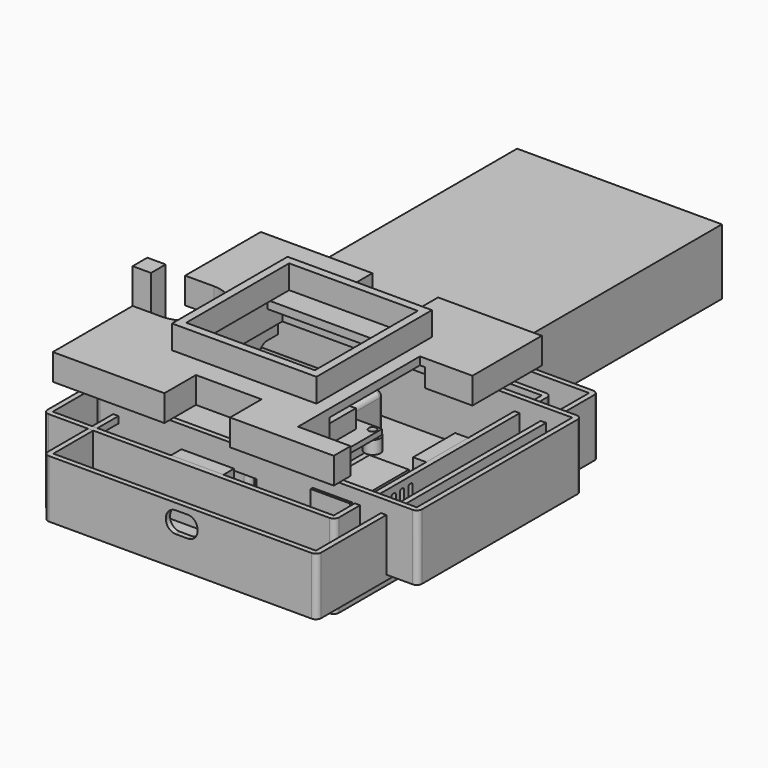
from build123d import *

# Parameters (mm, degrees)
BOX003_W                  = 78
BOX003_H                  = 123
BOX003_DEPTH              = 25
BOX001_W                  = 64
BOX001_H                  = 48
BOX001_DEPTH              = 15
FILLET001_R               = 2
CYLINDER_R                = 1.5
CYLINDER_DEPTH            = 10
CYLINDER001_R             = 1.5
CYLINDER001_DEPTH         = 10
CYLINDER002_R             = 1.5
CYLINDER002_DEPTH         = 10
CYLINDER003_R             = 1.5
CYLINDER003_DEPTH         = 10
BOX005_W                  = 42
BOX005_H                  = 24
BOX005_DEPTH              = 2
BOX004_W                  = 30
BOX004_H                  = 15
BOX004_DEPTH              = 7
BOX006_W                  = 30
BOX006_H                  = 28
BOX006_DEPTH              = 15
CYLINDER005_R             = 1.5
CYLINDER005_DEPTH         = 10
BOX008_W                  = 14
BOX008_H                  = 8
BOX008_DEPTH              = 3
CHAMFER001_SIZE           = 6
CUT004_PLACEMENT_ANGLE    = 180
CYLINDER004_R             = 1.5
CYLINDER004_DEPTH         = 10
BOX007_W                  = 14
BOX007_H                  = 8
BOX007_DEPTH              = 3
CHAMFER_SIZE              = 6
FUSION002_PLACEMENT_ANGLE = 90
BOX014_W                  = 20
BOX014_H                  = 9
BOX014_DEPTH              = 18
CHAMFER002_SIZE           = 6
BOX015_W                  = 24
BOX015_H                  = 9
BOX015_DEPTH              = 18
CHAMFER003_SIZE           = 8
BOX002_W                  = 74
BOX002_H                  = 119
BOX002_DEPTH              = 25
BOX_W                     = 78
BOX_H                     = 123
BOX_DEPTH                 = 25
FILLET_R                  = 2
CUT_PLACEMENT_ANGLE       = 270
FILLET002_R               = 2
BOX016_W                  = 4
BOX016_H                  = 8
BOX016_DEPTH              = 3
CYLINDER007_R             = 1.5
CYLINDER007_DEPTH         = 10
CYLINDER008_R             = 1.5
CYLINDER008_DEPTH         = 10
CYLINDER009_R             = 1.5
CYLINDER009_DEPTH         = 10
CYLINDER006_R             = 1.5
CYLINDER006_DEPTH         = 10
BOX013_W                  = 7
BOX013_H                  = 7
BOX013_DEPTH              = 3
BOX012_W                  = 75
BOX012_H                  = 42
BOX012_DEPTH              = 10
BOX011_W                  = 86
BOX011_H                  = 56
BOX011_DEPTH              = 2
FILLET004_R               = 4
FUSION009_PLACEMENT_ANGLE = 180
CYLINDER015_R             = 1.5
CYLINDER015_DEPTH         = 10
CYLINDER016_R             = 1.5
CYLINDER016_DEPTH         = 10
CYLINDER017_R             = 1.5
CYLINDER017_DEPTH         = 10
CYLINDER014_R             = 1.5
CYLINDER014_DEPTH         = 10
BOX017_W                  = 60
BOX017_H                  = 40
BOX017_DEPTH              = 2
CYLINDER011_R             = 0.7
CYLINDER011_DEPTH         = 10
CYLINDER012_R             = 0.7
CYLINDER012_DEPTH         = 10
CYLINDER013_R             = 0.7
CYLINDER013_DEPTH         = 10
CYLINDER010_R             = 0.7
CYLINDER010_DEPTH         = 10
BOX009_W                  = 44
BOX009_H                  = 18
BOX009_DEPTH              = 2
BOX010_W                  = 8
BOX010_H                  = 9
BOX010_DEPTH              = 3
FILLET003_R               = 1.4
BOX021_W                  = 10
BOX021_H                  = 12
BOX021_DEPTH              = 8
FILLET006_R               = 3.7
BOX022_W                  = 10
BOX022_H                  = 12
BOX022_DEPTH              = 8
FILLET007_R               = 3.7
FILLET007_PLACEMENT_ANGLE = 90
BOX020_W                  = 10
BOX020_H                  = 12
BOX020_DEPTH              = 8
FILLET005_R               = 3.7
BOX018_W                  = 100
BOX018_H                  = 130
BOX018_DEPTH              = 20
BOX019_W                  = 104
BOX019_H                  = 134
BOX019_DEPTH              = 22
FILLET008_R               = 2
CYLINDER018_R             = 0.7
CYLINDER018_DEPTH         = 10
CYLINDER019_R             = 0.7
CYLINDER019_DEPTH         = 10
BOX023_W                  = 20
BOX023_H                  = 5
BOX023_DEPTH              = 10
CYLINDER020_R             = 0.7
CYLINDER020_DEPTH         = 10
CYLINDER021_R             = 0.7
CYLINDER021_DEPTH         = 10
BOX024_W                  = 20
BOX024_H                  = 5
BOX024_DEPTH              = 10
TUBE001_R                 = 3
TUBE001_R_2               = 0.7
TUBE001_DEPTH             = 5
TUBE002_R                 = 3
TUBE002_R_2               = 0.7
TUBE002_DEPTH             = 5
TUBE003_R                 = 3
TUBE003_R_2               = 0.7
TUBE003_DEPTH             = 5
TUBE_R                    = 3
TUBE_R_2                  = 0.7
TUBE_DEPTH                = 5
TUBE005_R                 = 3
TUBE005_R_2               = 0.7
TUBE005_DEPTH             = 7
TUBE004_R                 = 3
TUBE004_R_2               = 0.7
TUBE004_DEPTH             = 7
FUSION016_PLACEMENT_ANGLE = 90
TUBE007_R                 = 3
TUBE007_R_2               = 0.7
TUBE007_DEPTH             = 5
TUBE008_R                 = 3
TUBE008_R_2               = 0.7
TUBE008_DEPTH             = 5
TUBE010_R                 = 3
TUBE010_R_2               = 0.7
TUBE010_DEPTH             = 5
TUBE006_R                 = 3
TUBE006_R_2               = 0.7
TUBE006_DEPTH             = 5
TUBE011_R                 = 3
TUBE011_R_2               = 0.7
TUBE011_DEPTH             = 10
TUBE012_R                 = 3
TUBE012_R_2               = 0.7
TUBE012_DEPTH             = 10
TUBE013_R                 = 3
TUBE013_R_2               = 0.7
TUBE013_DEPTH             = 10
TUBE009_R                 = 3
TUBE009_R_2               = 0.7
TUBE009_DEPTH             = 10
CYLINDER022_R             = 0.7
CYLINDER022_DEPTH         = 10
CYLINDER023_R             = 0.7
CYLINDER023_DEPTH         = 10
BOX025_W                  = 20
BOX025_H                  = 5
BOX025_DEPTH              = 10
CUT015_PLACEMENT_ANGLE    = 90
CYLINDER024_R             = 6
CYLINDER024_DEPTH         = 10
BOX026_W                  = 20
BOX026_H                  = 20
BOX026_DEPTH              = 3
FILLET009_R               = 9.7
BOX032_W                  = 9
BOX032_H                  = 20
BOX032_DEPTH              = 15
BOX031_W                  = 9
BOX031_H                  = 30
BOX031_DEPTH              = 20
FILLET010_R               = 9
CYLINDER026_R             = 4
CYLINDER026_DEPTH         = 10
CYLINDER025_R             = 8
CYLINDER025_DEPTH         = 30
BOX030_W                  = 19
BOX030_H                  = 25
BOX030_DEPTH              = 20
BOX029_W                  = 19
BOX029_H                  = 25
BOX029_DEPTH              = 20
FILLET011_R               = 3
BOX040_W                  = 12
BOX040_H                  = 12
BOX040_DEPTH              = 8
FILLET020_R               = 3.8
BOX039_W                  = 12
BOX039_H                  = 12
BOX039_DEPTH              = 8
FILLET019_R               = 3.8
BOX041_W                  = 12
BOX041_H                  = 12
BOX041_DEPTH              = 8
FILLET021_R               = 3.8
BOX033_W                  = 10
BOX033_H                  = 25
BOX033_DEPTH              = 2
FILLET013_R               = 0.8
FILLET013_PLACEMENT_ANGLE = 90
BOX034_W                  = 10
BOX034_H                  = 25
BOX034_DEPTH              = 2
FILLET014_R               = 0.8
FILLET014_PLACEMENT_ANGLE = 90
BOX035_W                  = 10
BOX035_H                  = 25
BOX035_DEPTH              = 2
FILLET015_R               = 0.8
FILLET015_PLACEMENT_ANGLE = 90
BOX036_W                  = 10
BOX036_H                  = 25
BOX036_DEPTH              = 2
FILLET016_R               = 0.8
FILLET016_PLACEMENT_ANGLE = 90
BOX037_W                  = 10
BOX037_H                  = 25
BOX037_DEPTH              = 2
FILLET017_R               = 0.8
FILLET017_PLACEMENT_ANGLE = 90
BOX038_W                  = 10
BOX038_H                  = 25
BOX038_DEPTH              = 2
FILLET018_R               = 0.8
FILLET018_PLACEMENT_ANGLE = 90
BOX027_W                  = 107
BOX027_H                  = 99
BOX027_DEPTH              = 32
BOX028_W                  = 111
BOX028_H                  = 103
BOX028_DEPTH              = 32
FILLET012_R               = 2
BOX043_W                  = 5
BOX043_H                  = 5
BOX043_DEPTH              = 3
BOX042_W                  = 10
BOX042_H                  = 7
BOX042_DEPTH              = 10
BOX042_PLACEMENT_ANGLE    = 20
BOX044_W                  = 5
BOX044_H                  = 5
BOX044_DEPTH              = 5
BOX045_W                  = 7
BOX045_H                  = 7
BOX045_DEPTH              = 20
BOX050_W                  = 60
BOX050_H                  = 50
BOX050_DEPTH              = 10
BOX052_W                  = 20
BOX052_H                  = 58
BOX052_DEPTH              = 10
BOX049_W                  = 25
BOX049_H                  = 20
BOX049_DEPTH              = 10
BOX051_W                  = 25
BOX051_H                  = 20
BOX051_DEPTH              = 10
BOX048_W                  = 25
BOX048_H                  = 25
BOX048_DEPTH              = 10
FILLET022_R               = 12
BOX047_W                  = 50
BOX047_H                  = 30
BOX047_DEPTH              = 10
BOX046_W                  = 107
BOX046_H                  = 99
BOX046_DEPTH              = 10
BOX054_W                  = 49
BOX054_H                  = 49
BOX054_DEPTH              = 9
BOX053_W                  = 55
BOX053_H                  = 55
BOX053_DEPTH              = 9


with BuildPart() as cube003:
    # Box003 → Box003 (new body)
    with BuildSketch(Plane.XY):
        with Locations((39, 61.5)):
            Rectangle(BOX003_W, BOX003_H)
    extrude(amount=BOX003_DEPTH)


with BuildPart() as fillet001:
    # Box001 → Box001 (new body)
    with BuildSketch(Plane(origin=(6, -8, 0), x_dir=(0, -1, 0), z_dir=(0, 0, 1))):
        with Locations((32, 24)):
            Rectangle(BOX001_W, BOX001_H)
    extrude(amount=BOX001_DEPTH)

    # Fillet001
    fillet001_edges = [fillet001.edges().sort_by_distance(p)[0] for p in [
        (6, -8, 7.5),
        (30, -8, 15),
        (54, -8, 7.5),
        (30, -8, 0),
        (6, -72, 7.5),
        (30, -72, 15),
        (54, -72, 7.5),
        (30, -72, 0),
        (6, -40, 0),
        (6, -40, 15),
        (54, -40, 0),
        (54, -40, 15),
    ]]
    fillet(fillet001_edges, radius=FILLET001_R)


with BuildPart() as cylinder:
    # Cylinder → Cylinder (new body)
    with BuildSketch(Plane.XY.offset(-2)):
        Circle(CYLINDER_R)
    extrude(amount=CYLINDER_DEPTH)


with BuildPart() as cylinder001:
    # Cylinder001 → Cylinder001 (new body)
    with BuildSketch(Plane(origin=(38, 0, -2), x_dir=(1, 0, 0), z_dir=(0, 0, 1))):
        Circle(CYLINDER001_R)
    extrude(amount=CYLINDER001_DEPTH)


with BuildPart() as cylinder002:
    # Cylinder002 → Cylinder002 (new body)
    with BuildSketch(Plane(origin=(38, 20, -2), x_dir=(1, 0, 0), z_dir=(0, 0, 1))):
        Circle(CYLINDER002_R)
    extrude(amount=CYLINDER002_DEPTH)


with BuildPart() as fusion001:
    # Cylinder003 → Cylinder003 (new body)
    with BuildSketch(Plane(origin=(0, 20, -2), x_dir=(1, 0, 0), z_dir=(0, 0, 1))):
        Circle(CYLINDER003_R)
    extrude(amount=CYLINDER003_DEPTH)

    # Fusion001: union Cylinder, Cylinder001, Cylinder002
    add(cylinder.part)
    add(cylinder001.part)
    add(cylinder002.part)


with BuildPart() as fusion001_1:
    # Fusion001 placement: moved
    add(fusion001.part.moved(Location((-4, -2, 0))))


with BuildPart() as cube005:
    # Box005 → Box005 (new body)
    with BuildSketch(Plane(origin=(-6, -4, 0), x_dir=(1, 0, 0), z_dir=(0, 0, 1))):
        with Locations((21, 12)):
            Rectangle(BOX005_W, BOX005_H)
    extrude(amount=BOX005_DEPTH)


with BuildPart() as display:
    # Box004 → Box004 (new body)
    with BuildSketch(Plane.XY.offset(2)):
        with Locations((15, 7.5)):
            Rectangle(BOX004_W, BOX004_H)
    extrude(amount=BOX004_DEPTH)

    # Fusion: union Cube005
    add(cube005.part)

    # Cut001: cut Fusion001
    add(fusion001_1.part, mode=Mode.SUBTRACT)


with BuildPart() as display_1:
    # Cut001 placement: moved
    add(display.part.moved(Location((31, -45, 11))))


with BuildPart() as sphere:
    # Sphere → Sphere (revolve)
    with BuildSketch(Plane(origin=(15, 14, 43.5), x_dir=(1, 0, 0), z_dir=(0, -1, 0))):
        with BuildLine():
            ThreePointArc((0, -30), (30, 0), (0, 30))
            Line((0, 30), (0, -30))
        make_face()
    revolve(axis=Axis((15, 14, 43.5), (0, 0, 1)))


with BuildPart() as cut002:
    # Box006 → Box006 (new body)
    with BuildSketch(Plane.XY):
        with Locations((15, 14)):
            Rectangle(BOX006_W, BOX006_H)
    extrude(amount=BOX006_DEPTH)

    # Cut002: cut Sphere
    add(sphere.part, mode=Mode.SUBTRACT)


with BuildPart() as cylinder005:
    # Cylinder005 → Cylinder005 (new body)
    with BuildSketch(Plane(origin=(15, 32.5, 0), x_dir=(1, 0, 0), z_dir=(0, 0, 1))):
        Circle(CYLINDER005_R)
    extrude(amount=CYLINDER005_DEPTH)


with BuildPart() as cut004:
    # Box008 → Box008 (new body)
    with BuildSketch(Plane(origin=(8, 27, 6), x_dir=(1, 0, 0), z_dir=(0, 0, 1))):
        with Locations((7, 4)):
            Rectangle(BOX008_W, BOX008_H)
    extrude(amount=BOX008_DEPTH)

    # Chamfer001
    chamfer001_edges = [cut004.edges().sort_by_distance(p)[0] for p in [
        (8, 35, 7.5),
        (22, 35, 7.5),
    ]]
    chamfer(chamfer001_edges, length=CHAMFER001_SIZE)

    # Cut004: cut Cylinder005
    add(cylinder005.part, mode=Mode.SUBTRACT)


with BuildPart() as cut004_1:
    # Cut004 placement: moved
    add(cut004.part.moved(Location((30, 28, 0))).rotate(Axis((30, 28, 0), (0, 0, 1)), CUT004_PLACEMENT_ANGLE))


with BuildPart() as cylinder004:
    # Cylinder004 → Cylinder004 (new body)
    with BuildSketch(Plane(origin=(15, 32.5, 0), x_dir=(1, 0, 0), z_dir=(0, 0, 1))):
        Circle(CYLINDER004_R)
    extrude(amount=CYLINDER004_DEPTH)


with BuildPart() as speaker:
    # Box007 → Box007 (new body)
    with BuildSketch(Plane(origin=(8, 27, 6), x_dir=(1, 0, 0), z_dir=(0, 0, 1))):
        with Locations((7, 4)):
            Rectangle(BOX007_W, BOX007_H)
    extrude(amount=BOX007_DEPTH)

    # Chamfer
    chamfer_edges = [speaker.edges().sort_by_distance(p)[0] for p in [
        (8, 35, 7.5),
        (22, 35, 7.5),
    ]]
    chamfer(chamfer_edges, length=CHAMFER_SIZE)

    # Cut003: cut Cylinder004
    add(cylinder004.part, mode=Mode.SUBTRACT)

    # Fusion002: union Cut002, Cut004
    add(cut002.part)
    add(cut004_1.part)


with BuildPart() as speaker_1:
    # Fusion002 placement: moved
    add(speaker.part.moved(Location((83, -79, 20))).rotate(Axis((83, -79, 20), (0, 1, 0)), FUSION002_PLACEMENT_ANGLE))


with BuildPart() as chamfer002:
    # Box014 → Box014 (new body)
    with BuildSketch(Plane(origin=(41.5, -76.5, 0), x_dir=(1, 0, 0), z_dir=(0, 0, 1))):
        with Locations((10, 4.5)):
            Rectangle(BOX014_W, BOX014_H)
    extrude(amount=BOX014_DEPTH)

    # Chamfer002
    chamfer002_edges = [chamfer002.edges().sort_by_distance(p)[0] for p in [
        (41.5, -67.5, 9),
        (61.5, -67.5, 9),
    ]]
    chamfer(chamfer002_edges, length=CHAMFER002_SIZE)


with BuildPart() as chamfer002_1:
    # Chamfer002 placement: moved
    add(chamfer002.part.moved(Location((0, -2, -2))))


with BuildPart() as chamfer003:
    # Box015 → Box015 (new body)
    with BuildSketch(Plane(origin=(39.5, -76.5, 0), x_dir=(1, 0, 0), z_dir=(0, 0, 1))):
        with Locations((12, 4.5)):
            Rectangle(BOX015_W, BOX015_H)
    extrude(amount=BOX015_DEPTH)

    # Chamfer003
    chamfer003_edges = [chamfer003.edges().sort_by_distance(p)[0] for p in [
        (39.5, -67.5, 9),
        (63.5, -67.5, 9),
    ]]
    chamfer(chamfer003_edges, length=CHAMFER003_SIZE)


with BuildPart() as cube002:
    # Box002 → Box002 (new body)
    with BuildSketch(Plane(origin=(2, 2, 0), x_dir=(1, 0, 0), z_dir=(0, 0, 1))):
        with Locations((37, 59.5)):
            Rectangle(BOX002_W, BOX002_H)
    extrude(amount=BOX002_DEPTH)


with BuildPart() as cut006:
    # Box → Box (new body)
    with BuildSketch(Plane.XY):
        with Locations((39, 61.5)):
            Rectangle(BOX_W, BOX_H)
    extrude(amount=BOX_DEPTH)

    # Fillet
    fillet_edges = [cut006.edges().sort_by_distance(p)[0] for p in [
        (0, 0, 12.5),
        (0, 123, 12.5),
        (78, 0, 12.5),
    ]]
    fillet(fillet_edges, radius=FILLET_R)

    # Cut: cut Cube002
    add(cube002.part, mode=Mode.SUBTRACT)


with BuildPart() as cut006_1:
    # Cut placement: moved
    add(cut006.part.rotate(Axis((0, 0, 0), (0, 0, 1)), CUT_PLACEMENT_ANGLE))

    # Fillet002
    fillet002_edges = [cut006_1.edges().sort_by_distance(p)[0] for p in [
        (123, -78, 12.5),
    ]]
    fillet(fillet002_edges, radius=FILLET002_R)

    # Fusion007: union Chamfer003
    add(chamfer003.part)

    # Cut006: cut Chamfer002
    add(chamfer002_1.part, mode=Mode.SUBTRACT)


with BuildPart() as cube016:
    # Box016 → Box016 (new body)
    with BuildSketch(Plane(origin=(11, -85, 12), x_dir=(1, 0, 0), z_dir=(0, 0, 1))):
        with Locations((2, 4)):
            Rectangle(BOX016_W, BOX016_H)
    extrude(amount=BOX016_DEPTH)


with BuildPart() as cylinder007:
    # Cylinder007 → Cylinder007 (new body)
    with BuildSketch(Plane(origin=(58, 0, 0), x_dir=(1, 0, 0), z_dir=(0, 0, 1))):
        Circle(CYLINDER007_R)
    extrude(amount=CYLINDER007_DEPTH)


with BuildPart() as cylinder008:
    # Cylinder008 → Cylinder008 (new body)
    with BuildSketch(Plane(origin=(0, 49, 0), x_dir=(1, 0, 0), z_dir=(0, 0, 1))):
        Circle(CYLINDER008_R)
    extrude(amount=CYLINDER008_DEPTH)


with BuildPart() as cylinder009:
    # Cylinder009 → Cylinder009 (new body)
    with BuildSketch(Plane(origin=(58, 49, 0), x_dir=(1, 0, 0), z_dir=(0, 0, 1))):
        Circle(CYLINDER009_R)
    extrude(amount=CYLINDER009_DEPTH)


with BuildPart() as fusion004:
    # Cylinder006 → Cylinder006 (new body)
    with BuildSketch(Plane.XY):
        Circle(CYLINDER006_R)
    extrude(amount=CYLINDER006_DEPTH)

    # Fusion004: union Cylinder007, Cylinder008, Cylinder009
    add(cylinder007.part)
    add(cylinder008.part)
    add(cylinder009.part)


with BuildPart() as fusion004_1:
    # Fusion004 placement: moved
    add(fusion004.part.moved(Location((6.5, -63.5, 4))))


with BuildPart() as cube013:
    # Box013 → Box013 (new body)
    with BuildSketch(Plane(origin=(45, -67, 12), x_dir=(1, 0, 0), z_dir=(0, 0, 1))):
        with Locations((3.5, 3.5)):
            Rectangle(BOX013_W, BOX013_H)
    extrude(amount=BOX013_DEPTH)


with BuildPart() as cube012:
    # Box012 → Box012 (new body)
    with BuildSketch(Plane(origin=(5, 7, 2), x_dir=(1, 0, 0), z_dir=(0, 0, 1))):
        with Locations((37.5, 21)):
            Rectangle(BOX012_W, BOX012_H)
    extrude(amount=BOX012_DEPTH)


with BuildPart() as power_pack001:
    # Box011 → Box011 (new body)
    with BuildSketch(Plane.XY.offset(10)):
        with Locations((43, 28)):
            Rectangle(BOX011_W, BOX011_H)
    extrude(amount=BOX011_DEPTH)

    # Fusion005: union Cube012
    add(cube012.part)


with BuildPart() as power_pack001_1:
    # Fusion005 placement: moved
    add(power_pack001.part.moved(Location((0, -67, 0))))

    # Fusion006: union Cube013
    add(cube013.part)


with BuildPart() as power_pack001_2:
    # Fusion006 placement: moved
    add(power_pack001_1.part.moved(Location((3, 0, 0))))

    # Cut005: cut Fusion004
    add(fusion004_1.part, mode=Mode.SUBTRACT)

    # Fillet004
    fillet004_edges = [power_pack001_2.edges().sort_by_distance(p)[0] for p in [
        (89, -67, 11),
        (3, -67, 11),
        (89, -11, 11),
        (3, -11, 11),
    ]]
    fillet(fillet004_edges, radius=FILLET004_R)


with BuildPart() as power_pack001_3:
    # Fillet004 placement: moved
    add(power_pack001_2.part.moved(Location((8, -41, 0))))

    # Fusion009: union Cube016
    add(cube016.part)


with BuildPart() as power_pack001_4:
    # Fusion009 placement: moved
    add(power_pack001_3.part.moved(Location((109, -98, -10))).rotate(Axis((109, -98, -10), (0, 0, 1)), FUSION009_PLACEMENT_ANGLE))


with BuildPart() as cylinder015:
    # Cylinder015 → Cylinder015 (new body)
    with BuildSketch(Plane(origin=(55, 0, 0), x_dir=(1, 0, 0), z_dir=(0, 0, 1))):
        Circle(CYLINDER015_R)
    extrude(amount=CYLINDER015_DEPTH)


with BuildPart() as cylinder016:
    # Cylinder016 → Cylinder016 (new body)
    with BuildSketch(Plane(origin=(0, 35, 0), x_dir=(1, 0, 0), z_dir=(0, 0, 1))):
        Circle(CYLINDER016_R)
    extrude(amount=CYLINDER016_DEPTH)


with BuildPart() as cylinder017:
    # Cylinder017 → Cylinder017 (new body)
    with BuildSketch(Plane(origin=(55, 35, 0), x_dir=(1, 0, 0), z_dir=(0, 0, 1))):
        Circle(CYLINDER017_R)
    extrude(amount=CYLINDER017_DEPTH)


with BuildPart() as fusion010:
    # Cylinder014 → Cylinder014 (new body)
    with BuildSketch(Plane.XY):
        Circle(CYLINDER014_R)
    extrude(amount=CYLINDER014_DEPTH)

    # Fusion010: union Cylinder015, Cylinder016, Cylinder017
    add(cylinder015.part)
    add(cylinder016.part)
    add(cylinder017.part)


with BuildPart() as fusion010_1:
    # Fusion010 placement: moved
    add(fusion010.part.moved(Location((2.5, 2.5, 0))))


with BuildPart() as cut008:
    # Box017 → Box017 (new body)
    with BuildSketch(Plane.XY.offset(3)):
        with Locations((30, 20)):
            Rectangle(BOX017_W, BOX017_H)
    extrude(amount=BOX017_DEPTH)

    # Cut008: cut Fusion010
    add(fusion010_1.part, mode=Mode.SUBTRACT)


with BuildPart() as cylinder011:
    # Cylinder011 → Cylinder011 (new body)
    with BuildSketch(Plane(origin=(40.5, 0, 0), x_dir=(1, 0, 0), z_dir=(0, 0, 1))):
        Circle(CYLINDER011_R)
    extrude(amount=CYLINDER011_DEPTH)


with BuildPart() as cylinder012:
    # Cylinder012 → Cylinder012 (new body)
    with BuildSketch(Plane(origin=(0, 15.5, 0), x_dir=(1, 0, 0), z_dir=(0, 0, 1))):
        Circle(CYLINDER012_R)
    extrude(amount=CYLINDER012_DEPTH)


with BuildPart() as cylinder013:
    # Cylinder013 → Cylinder013 (new body)
    with BuildSketch(Plane(origin=(40.5, 15.5, 0), x_dir=(1, 0, 0), z_dir=(0, 0, 1))):
        Circle(CYLINDER013_R)
    extrude(amount=CYLINDER013_DEPTH)


with BuildPart() as fusion008:
    # Cylinder010 → Cylinder010 (new body)
    with BuildSketch(Plane.XY):
        Circle(CYLINDER010_R)
    extrude(amount=CYLINDER010_DEPTH)

    # Fusion008: union Cylinder011, Cylinder012, Cylinder013
    add(cylinder011.part)
    add(cylinder012.part)
    add(cylinder013.part)


with BuildPart() as fusion008_1:
    # Fusion008 placement: moved
    add(fusion008.part.moved(Location((19, -20.75, 7))))


with BuildPart() as cube009:
    # Box009 → Box009 (new body)
    with BuildSketch(Plane.XY):
        with Locations((22, 9)):
            Rectangle(BOX009_W, BOX009_H)
    extrude(amount=BOX009_DEPTH)


with BuildPart() as nano_and_board:
    # Box010 → Box010 (new body)
    with BuildSketch(Plane.XY.offset(2)):
        with Locations((4, 4.5)):
            Rectangle(BOX010_W, BOX010_H)
    extrude(amount=BOX010_DEPTH)

    # Fillet003
    fillet003_edges = [nano_and_board.edges().sort_by_distance(p)[0] for p in [
        (4, 0, 2),
        (4, 0, 5),
        (4, 9, 2),
        (4, 9, 5),
    ]]
    fillet(fillet003_edges, radius=FILLET003_R)


with BuildPart() as nano_and_board_1:
    # Fillet003 placement: moved
    add(nano_and_board.part.moved(Location((0, 4.5, 0))))

    # Fusion003: union Cube009
    add(cube009.part)


with BuildPart() as nano_and_board_2:
    # Fusion003 placement: moved
    add(nano_and_board_1.part.moved(Location((17, -22, 14))))

    # Cut007: cut Fusion008
    add(fusion008_1.part, mode=Mode.SUBTRACT)


with BuildPart() as nano_and_board_3:
    # Cut007 placement: moved
    add(nano_and_board_2.part.moved(Location((-15, 29, -7))))

    # Fusion011: union Cut008
    add(cut008.part)


with BuildPart() as nano_and_board_4:
    # Fusion011 placement: moved
    add(nano_and_board_3.part.moved(Location((-7, -87, -8))))


with BuildPart() as fillet006:
    # Box021 → Box021 (new body)
    with BuildSketch(Plane(origin=(4, -3, 0), x_dir=(1, 0, 0), z_dir=(0, 0, 1))):
        with Locations((5, 6)):
            Rectangle(BOX021_W, BOX021_H)
    extrude(amount=BOX021_DEPTH)

    # Fillet006
    fillet006_edges = [fillet006.edges().sort_by_distance(p)[0] for p in [
        (9, -3, 0),
        (9, -3, 8),
        (9, 9, 0),
        (9, 9, 8),
    ]]
    fillet(fillet006_edges, radius=FILLET006_R)


with BuildPart() as fillet006_1:
    # Fillet006 placement: moved
    add(fillet006.part.moved(Location((0, -84, 9.5))))


with BuildPart() as fillet007:
    # Box022 → Box022 (new body)
    with BuildSketch(Plane(origin=(4, -3, 0), x_dir=(1, 0, 0), z_dir=(0, 0, 1))):
        with Locations((5, 6)):
            Rectangle(BOX022_W, BOX022_H)
    extrude(amount=BOX022_DEPTH)

    # Fillet007
    fillet007_edges = [fillet007.edges().sort_by_distance(p)[0] for p in [
        (9, -3, 0),
        (9, -3, 8),
        (9, 9, 0),
        (9, 9, 8),
    ]]
    fillet(fillet007_edges, radius=FILLET007_R)


with BuildPart() as fillet007_1:
    # Fillet007 placement: moved
    add(fillet007.part.moved(Location((62.5, -118, 9.5))).rotate(Axis((62.5, -118, 9.5), (0, 0, 1)), FILLET007_PLACEMENT_ANGLE))


with BuildPart() as fillet005:
    # Box020 → Box020 (new body)
    with BuildSketch(Plane(origin=(4, -3, 0), x_dir=(1, 0, 0), z_dir=(0, 0, 1))):
        with Locations((5, 6)):
            Rectangle(BOX020_W, BOX020_H)
    extrude(amount=BOX020_DEPTH)

    # Fillet005
    fillet005_edges = [fillet005.edges().sort_by_distance(p)[0] for p in [
        (9, -3, 0),
        (9, -3, 8),
        (9, 9, 0),
        (9, 9, 8),
    ]]
    fillet(fillet005_edges, radius=FILLET005_R)


with BuildPart() as fillet005_1:
    # Fillet005 placement: moved
    add(fillet005.part.moved(Location((0, -8, 8.5))))


with BuildPart() as cube018:
    # Box018 → Box018 (new body)
    with BuildSketch(Plane(origin=(9, -109, 0), x_dir=(1, 0, 0), z_dir=(0, 0, 1))):
        with Locations((50, 65)):
            Rectangle(BOX018_W, BOX018_H)
    extrude(amount=BOX018_DEPTH)


with BuildPart() as fillet008:
    # Box019 → Box019 (new body)
    with BuildSketch(Plane(origin=(7, -111, -2), x_dir=(1, 0, 0), z_dir=(0, 0, 1))):
        with Locations((52, 67)):
            Rectangle(BOX019_W, BOX019_H)
    extrude(amount=BOX019_DEPTH)

    # Cut009: cut Cube018
    add(cube018.part, mode=Mode.SUBTRACT)

    # Cut010: cut Fillet005
    add(fillet005_1.part, mode=Mode.SUBTRACT)

    # Cut011: cut Fillet007
    add(fillet007_1.part, mode=Mode.SUBTRACT)

    # Cut012: cut Fillet006
    add(fillet006_1.part, mode=Mode.SUBTRACT)

    # Fillet008
    fillet008_edges = [fillet008.edges().sort_by_distance(p)[0] for p in [
        (7, -111, 9),
        (7, 23, 9),
        (111, -111, 9),
        (111, 23, 9),
    ]]
    fillet(fillet008_edges, radius=FILLET008_R)


with BuildPart() as cylinder018:
    # Cylinder018 → Cylinder018 (new body)
    with BuildSketch(Plane(origin=(71.75, 22, 17), x_dir=(1, 0, 0), z_dir=(0, -1, 0))):
        Circle(CYLINDER018_R)
    extrude(amount=CYLINDER018_DEPTH)


with BuildPart() as fusion013:
    # Cylinder019 → Cylinder019 (new body)
    with BuildSketch(Plane(origin=(62.25, 22, 17), x_dir=(1, 0, 0), z_dir=(0, -1, 0))):
        Circle(CYLINDER019_R)
    extrude(amount=CYLINDER019_DEPTH)

    # Fusion013: union Cylinder018
    add(cylinder018.part)


with BuildPart() as fusion013_1:
    # Fusion013 placement: moved
    add(fusion013.part.moved(Location((0, 0, -5))))


with BuildPart() as up_button_stand:
    # Box023 → Box023 (new body)
    with BuildSketch(Plane(origin=(57, 16, 10), x_dir=(1, 0, 0), z_dir=(0, 0, 1))):
        with Locations((10, 2.5)):
            Rectangle(BOX023_W, BOX023_H)
    extrude(amount=BOX023_DEPTH)

    # Cut013: cut Fusion013
    add(fusion013_1.part, mode=Mode.SUBTRACT)


with BuildPart() as up_button_stand_1:
    # Cut013 placement: moved
    add(up_button_stand.part.moved(Location((-20, -10, 0))))


with BuildPart() as cylinder020:
    # Cylinder020 → Cylinder020 (new body)
    with BuildSketch(Plane(origin=(71.75, 22, 17), x_dir=(1, 0, 0), z_dir=(0, -1, 0))):
        Circle(CYLINDER020_R)
    extrude(amount=CYLINDER020_DEPTH)


with BuildPart() as fusion014:
    # Cylinder021 → Cylinder021 (new body)
    with BuildSketch(Plane(origin=(62.25, 22, 17), x_dir=(1, 0, 0), z_dir=(0, -1, 0))):
        Circle(CYLINDER021_R)
    extrude(amount=CYLINDER021_DEPTH)

    # Fusion014: union Cylinder020
    add(cylinder020.part)


with BuildPart() as fusion014_1:
    # Fusion014 placement: moved
    add(fusion014.part.moved(Location((0, 0, -5))))


with BuildPart() as down_button_stand:
    # Box024 → Box024 (new body)
    with BuildSketch(Plane(origin=(57, 16, 10), x_dir=(1, 0, 0), z_dir=(0, 0, 1))):
        with Locations((10, 2.5)):
            Rectangle(BOX024_W, BOX024_H)
    extrude(amount=BOX024_DEPTH)

    # Cut014: cut Fusion014
    add(fusion014_1.part, mode=Mode.SUBTRACT)


with BuildPart() as down_button_stand_1:
    # Cut014 placement: moved
    add(down_button_stand.part.moved(Location((-20, -104, 0))))


with BuildPart() as tube001:
    # Tube001 → Tube001 (new body)
    with BuildSketch(Plane(origin=(67.5, -18.5, 0), x_dir=(1, 0, 0), z_dir=(0, 0, 1))):
        Circle(TUBE001_R)
        Circle(TUBE001_R_2, mode=Mode.SUBTRACT)
    extrude(amount=TUBE001_DEPTH)


with BuildPart() as tube002:
    # Tube002 → Tube002 (new body)
    with BuildSketch(Plane(origin=(12.5, 16.5, 0), x_dir=(1, 0, 0), z_dir=(0, 0, 1))):
        Circle(TUBE002_R)
        Circle(TUBE002_R_2, mode=Mode.SUBTRACT)
    extrude(amount=TUBE002_DEPTH)


with BuildPart() as tube003:
    # Tube003 → Tube003 (new body)
    with BuildSketch(Plane(origin=(67.5, 16.5, 0), x_dir=(1, 0, 0), z_dir=(0, 0, 1))):
        Circle(TUBE003_R)
        Circle(TUBE003_R_2, mode=Mode.SUBTRACT)
    extrude(amount=TUBE003_DEPTH)


with BuildPart() as boardstand:
    # Tube → Tube (new body)
    with BuildSketch(Plane(origin=(12.5, -18.5, 0), x_dir=(1, 0, 0), z_dir=(0, 0, 1))):
        Circle(TUBE_R)
        Circle(TUBE_R_2, mode=Mode.SUBTRACT)
    extrude(amount=TUBE_DEPTH)

    # Fusion015: union Tube001, Tube002, Tube003
    add(tube001.part)
    add(tube002.part)
    add(tube003.part)


with BuildPart() as boardstand_1:
    # Fusion015 placement: moved
    add(boardstand.part.moved(Location((-17, -66, -10))))


with BuildPart() as tube005:
    # Tube005 → Tube005 (new body)
    with BuildSketch(Plane(origin=(92, -46.5, 0), x_dir=(1, 0, 0), z_dir=(0, 0, 1))):
        Circle(TUBE005_R)
        Circle(TUBE005_R_2, mode=Mode.SUBTRACT)
    extrude(amount=TUBE005_DEPTH)


with BuildPart() as obj1:
    # Tube004 → Tube004 (new body)
    with BuildSketch(Plane(origin=(92, -9.5, 0), x_dir=(1, 0, 0), z_dir=(0, 0, 1))):
        Circle(TUBE004_R)
        Circle(TUBE004_R_2, mode=Mode.SUBTRACT)
    extrude(amount=TUBE004_DEPTH)

    # Fusion016: union Tube005
    add(tube005.part)


with BuildPart() as obj1_1:
    # Fusion016 placement: moved
    add(obj1.part.moved(Location((92, -37, 97))).rotate(Axis((92, -37, 97), (0, 1, 0)), FUSION016_PLACEMENT_ANGLE))


with BuildPart() as tube007:
    # Tube007 → Tube007 (new body)
    with BuildSketch(Plane(origin=(65, -27, 0), x_dir=(1, 0, 0), z_dir=(0, 0, 1))):
        Circle(TUBE007_R)
        Circle(TUBE007_R_2, mode=Mode.SUBTRACT)
    extrude(amount=TUBE007_DEPTH)


with BuildPart() as tube008:
    # Tube008 → Tube008 (new body)
    with BuildSketch(Plane(origin=(27, -27, 0), x_dir=(1, 0, 0), z_dir=(0, 0, 1))):
        Circle(TUBE008_R)
        Circle(TUBE008_R_2, mode=Mode.SUBTRACT)
    extrude(amount=TUBE008_DEPTH)


with BuildPart() as tube010:
    # Tube010 → Tube010 (new body)
    with BuildSketch(Plane(origin=(27, -47, 0), x_dir=(1, 0, 0), z_dir=(0, 0, 1))):
        Circle(TUBE010_R)
        Circle(TUBE010_R_2, mode=Mode.SUBTRACT)
    extrude(amount=TUBE010_DEPTH)


with BuildPart() as obj2:
    # Tube006 → Tube006 (new body)
    with BuildSketch(Plane(origin=(65, -47, 0), x_dir=(1, 0, 0), z_dir=(0, 0, 1))):
        Circle(TUBE006_R)
        Circle(TUBE006_R_2, mode=Mode.SUBTRACT)
    extrude(amount=TUBE006_DEPTH)

    # Fusion017: union Tube007, Tube008, Tube010
    add(tube007.part)
    add(tube008.part)
    add(tube010.part)


with BuildPart() as obj2_1:
    # Fusion017 placement: moved
    add(obj2.part.moved(Location((0, 0, 6))))


with BuildPart() as tube011:
    # Tube011 → Tube011 (new body)
    with BuildSketch(Plane(origin=(14.5, -55.5, 0), x_dir=(1, 0, 0), z_dir=(0, 0, 1))):
        Circle(TUBE011_R)
        Circle(TUBE011_R_2, mode=Mode.SUBTRACT)
    extrude(amount=TUBE011_DEPTH)


with BuildPart() as tube012:
    # Tube012 → Tube012 (new body)
    with BuildSketch(Plane(origin=(72.5, -55.5, 0), x_dir=(1, 0, 0), z_dir=(0, 0, 1))):
        Circle(TUBE012_R)
        Circle(TUBE012_R_2, mode=Mode.SUBTRACT)
    extrude(amount=TUBE012_DEPTH)


with BuildPart() as tube013:
    # Tube013 → Tube013 (new body)
    with BuildSketch(Plane(origin=(72.5, -104.5, 0), x_dir=(1, 0, 0), z_dir=(0, 0, 1))):
        Circle(TUBE013_R)
        Circle(TUBE013_R_2, mode=Mode.SUBTRACT)
    extrude(amount=TUBE013_DEPTH)


with BuildPart() as powerstand:
    # Tube009 → Tube009 (new body)
    with BuildSketch(Plane(origin=(14.5, -104.5, 0), x_dir=(1, 0, 0), z_dir=(0, 0, 1))):
        Circle(TUBE009_R)
        Circle(TUBE009_R_2, mode=Mode.SUBTRACT)
    extrude(amount=TUBE009_DEPTH)

    # Fusion018: union Tube011, Tube012, Tube013
    add(tube011.part)
    add(tube012.part)
    add(tube013.part)


with BuildPart() as powerstand_1:
    # Fusion018 placement: moved
    add(powerstand.part.moved(Location((22, 62, -10))))


with BuildPart() as cylinder022:
    # Cylinder022 → Cylinder022 (new body)
    with BuildSketch(Plane(origin=(71.75, 22, 17), x_dir=(1, 0, 0), z_dir=(0, -1, 0))):
        Circle(CYLINDER022_R)
    extrude(amount=CYLINDER022_DEPTH)


with BuildPart() as fusion019:
    # Cylinder023 → Cylinder023 (new body)
    with BuildSketch(Plane(origin=(62.25, 22, 17), x_dir=(1, 0, 0), z_dir=(0, -1, 0))):
        Circle(CYLINDER023_R)
    extrude(amount=CYLINDER023_DEPTH)

    # Fusion019: union Cylinder022
    add(cylinder022.part)


with BuildPart() as fusion019_1:
    # Fusion019 placement: moved
    add(fusion019.part.moved(Location((0, 0, -5))))


with BuildPart() as right_button_stand:
    # Box025 → Box025 (new body)
    with BuildSketch(Plane(origin=(57, 16, 10), x_dir=(1, 0, 0), z_dir=(0, 0, 1))):
        with Locations((10, 2.5)):
            Rectangle(BOX025_W, BOX025_H)
    extrude(amount=BOX025_DEPTH)

    # Cut015: cut Fusion019
    add(fusion019_1.part, mode=Mode.SUBTRACT)


with BuildPart() as right_button_stand_1:
    # Cut015 placement: moved
    add(right_button_stand.part.moved(Location((115, -101, 0))).rotate(Axis((115, -101, 0), (0, 0, 1)), CUT015_PLACEMENT_ANGLE))


with BuildPart() as cylinder024:
    # Cylinder024 → Cylinder024 (new body)
    with BuildSketch(Plane.XY):
        Circle(CYLINDER024_R)
    extrude(amount=CYLINDER024_DEPTH)


with BuildPart() as fillet009:
    # Box026 → Box026 (new body)
    with BuildSketch(Plane(origin=(-10, -10, 4), x_dir=(1, 0, 0), z_dir=(0, 0, 1))):
        with Locations((10, 10)):
            Rectangle(BOX026_W, BOX026_H)
    extrude(amount=BOX026_DEPTH)

    # Cut016: cut Cylinder024
    add(cylinder024.part, mode=Mode.SUBTRACT)


with BuildPart() as fillet009_1:
    # Cut016 placement: moved
    add(fillet009.part.moved(Location((2, -37, 7))))

    # Fillet009
    fillet009_edges = [fillet009_1.edges().sort_by_distance(p)[0] for p in [
        (12, -47, 12.5),
        (12, -27, 12.5),
    ]]
    fillet(fillet009_edges, radius=FILLET009_R)


with BuildPart() as cube032:
    # Box032 → Box032 (new body)
    with BuildSketch(Plane(origin=(54, -48, -10), x_dir=(1, 0, 0), z_dir=(0, 0, 1))):
        with Locations((4.5, 10)):
            Rectangle(BOX032_W, BOX032_H)
    extrude(amount=BOX032_DEPTH)


with BuildPart() as fillet010:
    # Box031 → Box031 (new body)
    with BuildSketch(Plane(origin=(54, -58, -10), x_dir=(1, 0, 0), z_dir=(0, 0, 1))):
        with Locations((4.5, 15)):
            Rectangle(BOX031_W, BOX031_H)
    extrude(amount=BOX031_DEPTH)

    # Cut021: cut Cube032
    add(cube032.part, mode=Mode.SUBTRACT)

    # Fillet010
    fillet010_edges = [fillet010.edges().sort_by_distance(p)[0] for p in [
        (58.5, -58, 10),
    ]]
    fillet(fillet010_edges, radius=FILLET010_R)


with BuildPart() as cylinder026:
    # Cylinder026 → Cylinder026 (new body)
    with BuildSketch(Plane(origin=(2, -49.5, -4), x_dir=(0, 0, -1), z_dir=(1, 0, 0))):
        Circle(CYLINDER026_R)
    extrude(amount=CYLINDER026_DEPTH)


with BuildPart() as cylinder025:
    # Cylinder025 → Cylinder025 (new body)
    with BuildSketch(Plane(origin=(2, -37, -13), x_dir=(1, 0, 0), z_dir=(0, 0, 1))):
        Circle(CYLINDER025_R)
    extrude(amount=CYLINDER025_DEPTH)


with BuildPart() as cube030:
    # Box030 → Box030 (new body)
    with BuildSketch(Plane(origin=(11, 0, -13), x_dir=(1, 0, 0), z_dir=(0, 0, 1))):
        with Locations((9.5, 12.5)):
            Rectangle(BOX030_W, BOX030_H)
    extrude(amount=BOX030_DEPTH)


with BuildPart() as fillet011:
    # Box029 → Box029 (new body)
    with BuildSketch(Plane(origin=(7, 0, -10), x_dir=(1, 0, 0), z_dir=(0, 0, 1))):
        with Locations((9.5, 12.5)):
            Rectangle(BOX029_W, BOX029_H)
    extrude(amount=BOX029_DEPTH)

    # Cut018: cut Cube030
    add(cube030.part, mode=Mode.SUBTRACT)


with BuildPart() as fillet011_1:
    # Cut018 placement: moved
    add(fillet011.part.moved(Location((0, -49.5, 0))))

    # Cut019: cut Cylinder025
    add(cylinder025.part, mode=Mode.SUBTRACT)

    # Cut020: cut Cylinder026
    add(cylinder026.part, mode=Mode.SUBTRACT)

    # Fillet011
    fillet011_edges = [fillet011_1.edges().sort_by_distance(p)[0] for p in [
        (7, -46.372499, 10),
        (9.211103, -40.464102, 10),
        (9.211103, -33.535898, 10),
        (7, -27.627501, 10),
    ]]
    fillet(fillet011_edges, radius=FILLET011_R)


with BuildPart() as fillet020:
    # Box040 → Box040 (new body)
    with BuildSketch(Plane.XY):
        with Locations((6, 6)):
            Rectangle(BOX040_W, BOX040_H)
    extrude(amount=BOX040_DEPTH)

    # Fillet020
    fillet020_edges = [fillet020.edges().sort_by_distance(p)[0] for p in [
        (0, 0, 4),
        (0, 6, 8),
        (0, 12, 4),
        (0, 6, 0),
        (12, 0, 4),
        (12, 6, 8),
        (12, 12, 4),
        (12, 6, 0),
        (6, 0, 0),
        (6, 0, 8),
        (6, 12, 0),
        (6, 12, 8),
    ]]
    fillet(fillet020_edges, radius=FILLET020_R)


with BuildPart() as fillet020_1:
    # Fillet020 placement: moved
    add(fillet020.part.moved(Location((-15, -77, -1.5))))


with BuildPart() as fillet019:
    # Box039 → Box039 (new body)
    with BuildSketch(Plane.XY):
        with Locations((6, 6)):
            Rectangle(BOX039_W, BOX039_H)
    extrude(amount=BOX039_DEPTH)

    # Fillet019
    fillet019_edges = [fillet019.edges().sort_by_distance(p)[0] for p in [
        (0, 0, 4),
        (0, 6, 8),
        (0, 12, 4),
        (0, 6, 0),
        (12, 0, 4),
        (12, 6, 8),
        (12, 12, 4),
        (12, 6, 0),
        (6, 0, 0),
        (6, 0, 8),
        (6, 12, 0),
        (6, 12, 8),
    ]]
    fillet(fillet019_edges, radius=FILLET019_R)


with BuildPart() as fillet019_1:
    # Fillet019 placement: moved
    add(fillet019.part.moved(Location((43.5, 6, -0.5))))


with BuildPart() as fillet021:
    # Box041 → Box041 (new body)
    with BuildSketch(Plane.XY):
        with Locations((6, 6)):
            Rectangle(BOX041_W, BOX041_H)
    extrude(amount=BOX041_DEPTH)

    # Fillet021
    fillet021_edges = [fillet021.edges().sort_by_distance(p)[0] for p in [
        (0, 0, 4),
        (0, 6, 8),
        (0, 12, 4),
        (0, 6, 0),
        (12, 0, 4),
        (12, 6, 8),
        (12, 12, 4),
        (12, 6, 0),
        (6, 0, 0),
        (6, 0, 8),
        (6, 12, 0),
        (6, 12, 8),
    ]]
    fillet(fillet021_edges, radius=FILLET021_R)


with BuildPart() as fillet021_1:
    # Fillet021 placement: moved
    add(fillet021.part.moved(Location((94, -23, -0.5))))


with BuildPart() as fillet013:
    # Box033 → Box033 (new body)
    with BuildSketch(Plane(origin=(95, -77.5, -7), x_dir=(1, 0, 0), z_dir=(0, 0, 1))):
        with Locations((5, 12.5)):
            Rectangle(BOX033_W, BOX033_H)
    extrude(amount=BOX033_DEPTH)

    # Fillet013
    fillet013_edges = [fillet013.edges().sort_by_distance(p)[0] for p in [
        (95, -77.5, -6),
        (95, -65, -5),
        (95, -52.5, -6),
        (95, -65, -7),
        (105, -77.5, -6),
        (105, -65, -5),
        (105, -52.5, -6),
        (105, -65, -7),
        (100, -77.5, -7),
        (100, -77.5, -5),
        (100, -52.5, -7),
        (100, -52.5, -5),
    ]]
    fillet(fillet013_edges, radius=FILLET013_R)


with BuildPart() as fillet013_1:
    # Fillet013 placement: moved
    add(fillet013.part.moved(Location((1, -60, 70))).rotate(Axis((1, -60, 70), (1, 0, 0)), FILLET013_PLACEMENT_ANGLE))


with BuildPart() as fillet014:
    # Box034 → Box034 (new body)
    with BuildSketch(Plane(origin=(95, -77.5, -7), x_dir=(1, 0, 0), z_dir=(0, 0, 1))):
        with Locations((5, 12.5)):
            Rectangle(BOX034_W, BOX034_H)
    extrude(amount=BOX034_DEPTH)

    # Fillet014
    fillet014_edges = [fillet014.edges().sort_by_distance(p)[0] for p in [
        (95, -77.5, -6),
        (95, -65, -5),
        (95, -52.5, -6),
        (95, -65, -7),
        (105, -77.5, -6),
        (105, -65, -5),
        (105, -52.5, -6),
        (105, -65, -7),
        (100, -77.5, -7),
        (100, -77.5, -5),
        (100, -52.5, -7),
        (100, -52.5, -5),
    ]]
    fillet(fillet014_edges, radius=FILLET014_R)


with BuildPart() as fillet014_1:
    # Fillet014 placement: moved
    add(fillet014.part.moved(Location((1, -64, 70))).rotate(Axis((1, -64, 70), (1, 0, 0)), FILLET014_PLACEMENT_ANGLE))


with BuildPart() as fillet015:
    # Box035 → Box035 (new body)
    with BuildSketch(Plane(origin=(95, -77.5, -7), x_dir=(1, 0, 0), z_dir=(0, 0, 1))):
        with Locations((5, 12.5)):
            Rectangle(BOX035_W, BOX035_H)
    extrude(amount=BOX035_DEPTH)

    # Fillet015
    fillet015_edges = [fillet015.edges().sort_by_distance(p)[0] for p in [
        (95, -77.5, -6),
        (95, -65, -5),
        (95, -52.5, -6),
        (95, -65, -7),
        (105, -77.5, -6),
        (105, -65, -5),
        (105, -52.5, -6),
        (105, -65, -7),
        (100, -77.5, -7),
        (100, -77.5, -5),
        (100, -52.5, -7),
        (100, -52.5, -5),
    ]]
    fillet(fillet015_edges, radius=FILLET015_R)


with BuildPart() as fillet015_1:
    # Fillet015 placement: moved
    add(fillet015.part.moved(Location((1, -68, 70))).rotate(Axis((1, -68, 70), (1, 0, 0)), FILLET015_PLACEMENT_ANGLE))


with BuildPart() as fillet016:
    # Box036 → Box036 (new body)
    with BuildSketch(Plane(origin=(95, -77.5, -7), x_dir=(1, 0, 0), z_dir=(0, 0, 1))):
        with Locations((5, 12.5)):
            Rectangle(BOX036_W, BOX036_H)
    extrude(amount=BOX036_DEPTH)

    # Fillet016
    fillet016_edges = [fillet016.edges().sort_by_distance(p)[0] for p in [
        (95, -77.5, -6),
        (95, -65, -5),
        (95, -52.5, -6),
        (95, -65, -7),
        (105, -77.5, -6),
        (105, -65, -5),
        (105, -52.5, -6),
        (105, -65, -7),
        (100, -77.5, -7),
        (100, -77.5, -5),
        (100, -52.5, -7),
        (100, -52.5, -5),
    ]]
    fillet(fillet016_edges, radius=FILLET016_R)


with BuildPart() as fillet016_1:
    # Fillet016 placement: moved
    add(fillet016.part.moved(Location((1, -72, 70))).rotate(Axis((1, -72, 70), (1, 0, 0)), FILLET016_PLACEMENT_ANGLE))


with BuildPart() as fillet017:
    # Box037 → Box037 (new body)
    with BuildSketch(Plane(origin=(95, -77.5, -7), x_dir=(1, 0, 0), z_dir=(0, 0, 1))):
        with Locations((5, 12.5)):
            Rectangle(BOX037_W, BOX037_H)
    extrude(amount=BOX037_DEPTH)

    # Fillet017
    fillet017_edges = [fillet017.edges().sort_by_distance(p)[0] for p in [
        (95, -77.5, -6),
        (95, -65, -5),
        (95, -52.5, -6),
        (95, -65, -7),
        (105, -77.5, -6),
        (105, -65, -5),
        (105, -52.5, -6),
        (105, -65, -7),
        (100, -77.5, -7),
        (100, -77.5, -5),
        (100, -52.5, -7),
        (100, -52.5, -5),
    ]]
    fillet(fillet017_edges, radius=FILLET017_R)


with BuildPart() as fillet017_1:
    # Fillet017 placement: moved
    add(fillet017.part.moved(Location((1, -76, 70))).rotate(Axis((1, -76, 70), (1, 0, 0)), FILLET017_PLACEMENT_ANGLE))


with BuildPart() as fusion020:
    # Box038 → Box038 (new body)
    with BuildSketch(Plane(origin=(95, -77.5, -7), x_dir=(1, 0, 0), z_dir=(0, 0, 1))):
        with Locations((5, 12.5)):
            Rectangle(BOX038_W, BOX038_H)
    extrude(amount=BOX038_DEPTH)

    # Fillet018
    fillet018_edges = [fusion020.edges().sort_by_distance(p)[0] for p in [
        (95, -77.5, -6),
        (95, -65, -5),
        (95, -52.5, -6),
        (95, -65, -7),
        (105, -77.5, -6),
        (105, -65, -5),
        (105, -52.5, -6),
        (105, -65, -7),
        (100, -77.5, -7),
        (100, -77.5, -5),
        (100, -52.5, -7),
        (100, -52.5, -5),
    ]]
    fillet(fillet018_edges, radius=FILLET018_R)


with BuildPart() as fusion020_1:
    # Fillet018 placement: moved
    add(fusion020.part.moved(Location((1, -80, 70))).rotate(Axis((1, -80, 70), (1, 0, 0)), FILLET018_PLACEMENT_ANGLE))

    # Fusion020: union Fillet013, Fillet014, Fillet015, Fillet016, Fillet017
    add(fillet013_1.part)
    add(fillet014_1.part)
    add(fillet015_1.part)
    add(fillet016_1.part)
    add(fillet017_1.part)


with BuildPart() as cube027:
    # Box027 → Box027 (new body)
    with BuildSketch(Plane(origin=(-8, -88, -10), x_dir=(1, 0, 0), z_dir=(0, 0, 1))):
        with Locations((53.5, 49.5)):
            Rectangle(BOX027_W, BOX027_H)
    extrude(amount=BOX027_DEPTH)


with BuildPart() as cut025:
    # Box028 → Box028 (new body)
    with BuildSketch(Plane(origin=(-10, -90, -12), x_dir=(1, 0, 0), z_dir=(0, 0, 1))):
        with Locations((55.5, 51.5)):
            Rectangle(BOX028_W, BOX028_H)
    extrude(amount=BOX028_DEPTH)

    # Cut017: cut Cube027
    add(cube027.part, mode=Mode.SUBTRACT)

    # Fillet012
    fillet012_edges = [cut025.edges().sort_by_distance(p)[0] for p in [
        (-10, -90, 4),
        (-10, 13, 4),
        (101, -90, 4),
        (101, 13, 4),
    ]]
    fillet(fillet012_edges, radius=FILLET012_R)

    # Cut022: cut Fusion020
    add(fusion020_1.part, mode=Mode.SUBTRACT)

    # Cut023: cut Fillet021
    add(fillet021_1.part, mode=Mode.SUBTRACT)

    # Cut024: cut Fillet019
    add(fillet019_1.part, mode=Mode.SUBTRACT)

    # Cut025: cut Fillet020
    add(fillet020_1.part, mode=Mode.SUBTRACT)


with BuildPart() as cube043:
    # Box043 → Box043 (new body)
    with BuildSketch(Plane(origin=(-33, -14, 0), x_dir=(1, 0, 0), z_dir=(0, 0, 1))):
        with Locations((2.5, 2.5)):
            Rectangle(BOX043_W, BOX043_H)
    extrude(amount=BOX043_DEPTH)


with BuildPart() as cube042:
    # Box042 → Box042 (new body)
    with BuildSketch(Plane.XY):
        with Locations((5, 3.5)):
            Rectangle(BOX042_W, BOX042_H)
    extrude(amount=BOX042_DEPTH)


with BuildPart() as cube042_1:
    # Box042 placement: moved
    add(cube042.part.moved(Location((-36, 0, 6))).rotate(Axis((-36, 0, 6), (0, 1, 0)), BOX042_PLACEMENT_ANGLE))


with BuildPart() as cut026:
    # Box044 → Box044 (new body)
    with BuildSketch(Plane(origin=(-33, 0, 0), x_dir=(1, 0, 0), z_dir=(0, 0, 1))):
        with Locations((2.5, 2.5)):
            Rectangle(BOX044_W, BOX044_H)
    extrude(amount=BOX044_DEPTH)

    # Cut026: cut Cube042
    add(cube042_1.part, mode=Mode.SUBTRACT)


with BuildPart() as cube045:
    # Box045 → Box045 (new body)
    with BuildSketch(Plane(origin=(-48, 0, 0), x_dir=(1, 0, 0), z_dir=(0, 0, 1))):
        with Locations((3.5, 3.5)):
            Rectangle(BOX045_W, BOX045_H)
    extrude(amount=BOX045_DEPTH)


with BuildPart() as cube050:
    # Box050 → Box050 (new body)
    with BuildSketch(Plane(origin=(21, -65, 27), x_dir=(1, 0, 0), z_dir=(0, 0, 1))):
        with Locations((30, 25)):
            Rectangle(BOX050_W, BOX050_H)
    extrude(amount=BOX050_DEPTH)


with BuildPart() as cube052:
    # Box052 → Box052 (new body)
    with BuildSketch(Plane(origin=(79, -80, 30), x_dir=(1, 0, 0), z_dir=(0, 0, 1))):
        with Locations((10, 29)):
            Rectangle(BOX052_W, BOX052_H)
    extrude(amount=BOX052_DEPTH)


with BuildPart() as cube049:
    # Box049 → Box049 (new body)
    with BuildSketch(Plane(origin=(34.5, -93, 30), x_dir=(1, 0, 0), z_dir=(0, 0, 1))):
        with Locations((12.5, 10)):
            Rectangle(BOX049_W, BOX049_H)
    extrude(amount=BOX049_DEPTH)


with BuildPart() as cube051:
    # Box051 → Box051 (new body)
    with BuildSketch(Plane(origin=(34.5, -4, 30), x_dir=(1, 0, 0), z_dir=(0, 0, 1))):
        with Locations((12.5, 10)):
            Rectangle(BOX051_W, BOX051_H)
    extrude(amount=BOX051_DEPTH)


with BuildPart() as fillet022:
    # Box048 → Box048 (new body)
    with BuildSketch(Plane(origin=(-8, -88, 30), x_dir=(1, 0, 0), z_dir=(0, 0, 1))):
        with Locations((12.5, 12.5)):
            Rectangle(BOX048_W, BOX048_H)
    extrude(amount=BOX048_DEPTH)

    # Fillet022
    fillet022_edges = [fillet022.edges().sort_by_distance(p)[0] for p in [
        (17, -88, 35),
        (17, -63, 35),
    ]]
    fillet(fillet022_edges, radius=FILLET022_R)


with BuildPart() as fillet022_1:
    # Fillet022 placement: moved
    add(fillet022.part.moved(Location((-2, 38, 0))))


with BuildPart() as cube047:
    # Box047 → Box047 (new body)
    with BuildSketch(Plane(origin=(21, -52, 30), x_dir=(1, 0, 0), z_dir=(0, 0, 1))):
        with Locations((25, 15)):
            Rectangle(BOX047_W, BOX047_H)
    extrude(amount=BOX047_DEPTH)


with BuildPart() as cut032:
    # Box046 → Box046 (new body)
    with BuildSketch(Plane(origin=(-8, -88, 30), x_dir=(1, 0, 0), z_dir=(0, 0, 1))):
        with Locations((53.5, 49.5)):
            Rectangle(BOX046_W, BOX046_H)
    extrude(amount=BOX046_DEPTH)

    # Cut027: cut Cube047
    add(cube047.part, mode=Mode.SUBTRACT)

    # Cut028: cut Fillet022
    add(fillet022_1.part, mode=Mode.SUBTRACT)

    # Cut029: cut Cube051
    add(cube051.part, mode=Mode.SUBTRACT)

    # Cut030: cut Cube049
    add(cube049.part, mode=Mode.SUBTRACT)

    # Cut031: cut Cube052
    add(cube052.part, mode=Mode.SUBTRACT)

    # Cut032: cut Cube050
    add(cube050.part, mode=Mode.SUBTRACT)


with BuildPart() as cube054:
    # Box054 → Box054 (new body)
    with BuildSketch(Plane(origin=(22, -62, 39), x_dir=(1, 0, 0), z_dir=(0, 0, 1))):
        with Locations((24.5, 24.5)):
            Rectangle(BOX054_W, BOX054_H)
    extrude(amount=BOX054_DEPTH)


with BuildPart() as fusion021:
    # Box053 → Box053 (new body)
    with BuildSketch(Plane(origin=(19, -65, 39), x_dir=(1, 0, 0), z_dir=(0, 0, 1))):
        with Locations((27.5, 27.5)):
            Rectangle(BOX053_W, BOX053_H)
    extrude(amount=BOX053_DEPTH)

    # Cut033: cut Cube054
    add(cube054.part, mode=Mode.SUBTRACT)


with BuildPart() as fusion021_1:
    # Cut033 placement: moved
    add(fusion021.part.moved(Location((0, 0, 1))))

    # Fusion021: union Cut032
    add(cut032.part)


solid = Compound([cube003.part, fillet001.part, display_1.part, speaker_1.part, cut006_1.part, power_pack001_4.part, nano_and_board_4.part, fillet008.part, up_button_stand_1.part, down_button_stand_1.part, boardstand_1.part, obj1_1.part, obj2_1.part, powerstand_1.part, right_button_stand_1.part, fillet009_1.part, fillet010.part, fillet011_1.part, cut025.part, cube043.part, cut026.part, cube045.part, fusion021_1.part])
